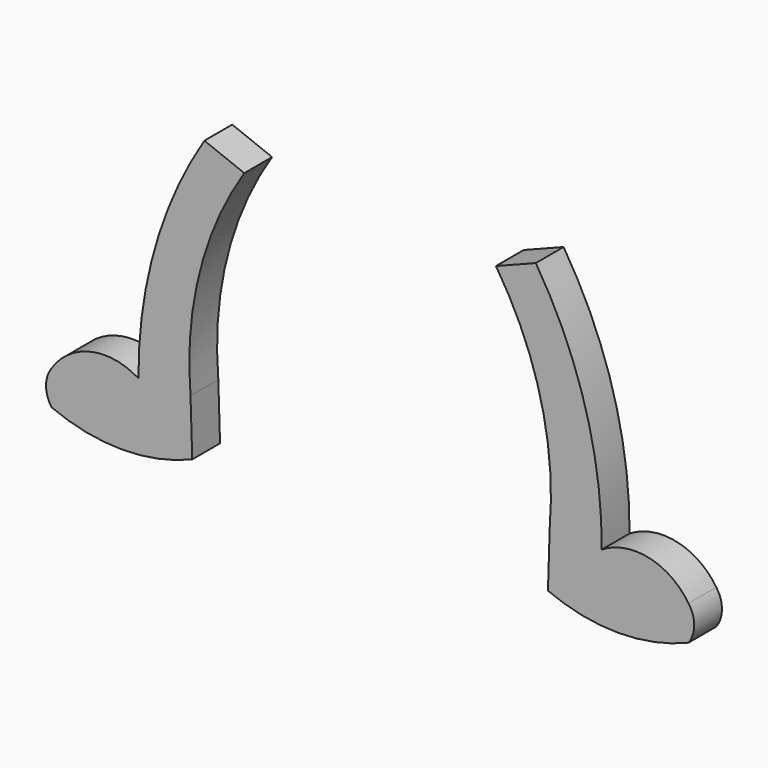
from build123d import *

# Parameters (mm, degrees)
F1_DEPTH = 4.826


with BuildPart() as f1:
    # F0 (on Front) → F1 (new body)
    with BuildSketch(Plane.XZ):
        with BuildLine():
            Line((24.942877, -42.776432), (32.172695, -43.017425))
            ThreePointArc((32.172695, -43.017425), (29.893309, -26.334326), (23.014925, -10.965226))
            Line((23.014925, -10.965226), (17.472062, -13.134172))
            ThreePointArc((17.472062, -13.134172), (23.695987, -27.328115), (24.942877, -42.776432))
        make_face()
        with BuildLine():
            ThreePointArc((44.2224, -45.66836), (38.73582, -41.896198), (32.172695, -43.017425))
            Line((32.172695, -43.017425), (24.942877, -42.776432))
            Line((24.942877, -42.776432), (24.701886, -50.488241))
            ThreePointArc((24.701886, -50.488241), (34.462143, -52.453352), (44.2224, -50.488241))
            ThreePointArc((44.2224, -50.488241), (45.009931, -48.0783), (44.2224, -45.66836))
        make_face()
        with BuildLine():
            ThreePointArc((-24.942877, -42.776432), (-23.695987, -27.328115), (-17.472062, -13.134172))
            Line((-17.472062, -13.134172), (-23.014925, -10.965226))
            ThreePointArc((-23.014925, -10.965226), (-29.893309, -26.334326), (-32.172695, -43.017425))
            Line((-32.172695, -43.017425), (-24.942877, -42.776432))
        make_face()
        with BuildLine():
            Line((-24.701886, -50.488241), (-24.942877, -42.776432))
            Line((-24.942877, -42.776432), (-32.172695, -43.017425))
            ThreePointArc((-32.172695, -43.017425), (-38.73582, -41.896198), (-44.2224, -45.66836))
            ThreePointArc((-44.2224, -45.66836), (-45.009931, -48.0783), (-44.2224, -50.488241))
            ThreePointArc((-44.2224, -50.488241), (-34.462143, -52.453352), (-24.701886, -50.488241))
        make_face()
    extrude(amount=F1_DEPTH)


solid = f1.part
